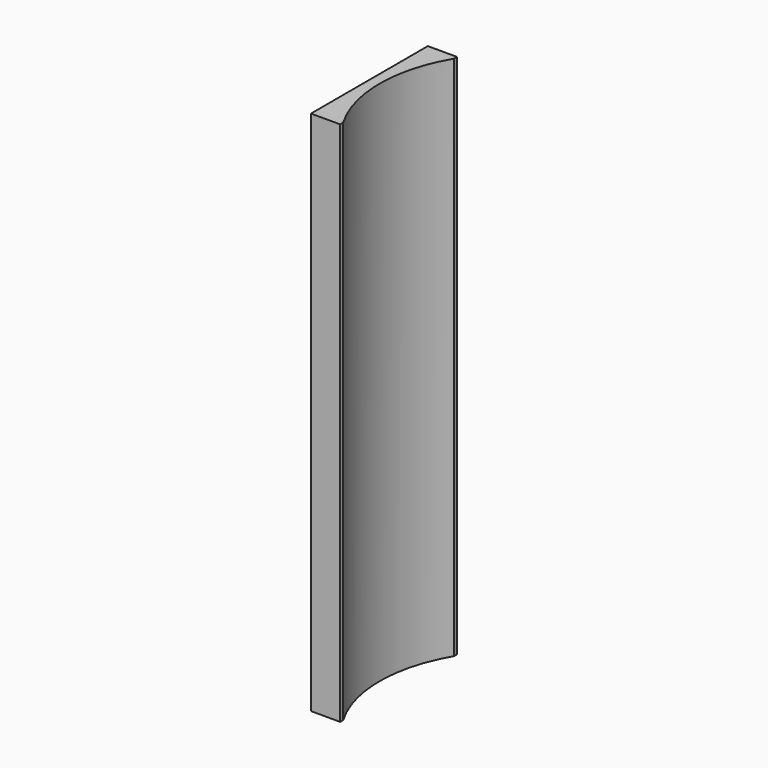
from build123d import *

# Parameters (mm, degrees)
CYLINDER001_R     = 9.3
CYLINDER001_DEPTH = 49.5
BOX_W             = 2
BOX_H             = 10
BOX_DEPTH         = 36


with BuildPart() as cylinder001:
    # Cylinder001 → Cylinder001 (new body)
    with BuildSketch(Plane.XY.offset(0.5)):
        Circle(CYLINDER001_R)
    extrude(amount=CYLINDER001_DEPTH)


with BuildPart() as cut001:
    # Box → Box (new body)
    with BuildSketch(Plane(origin=(-10, -5, 8), x_dir=(1, 0, 0), z_dir=(0, 0, 1))):
        with Locations((1, 5)):
            Rectangle(BOX_W, BOX_H)
    extrude(amount=BOX_DEPTH)

    # Cut001: cut Cylinder001
    add(cylinder001.part, mode=Mode.SUBTRACT)


solid = cut001.part
